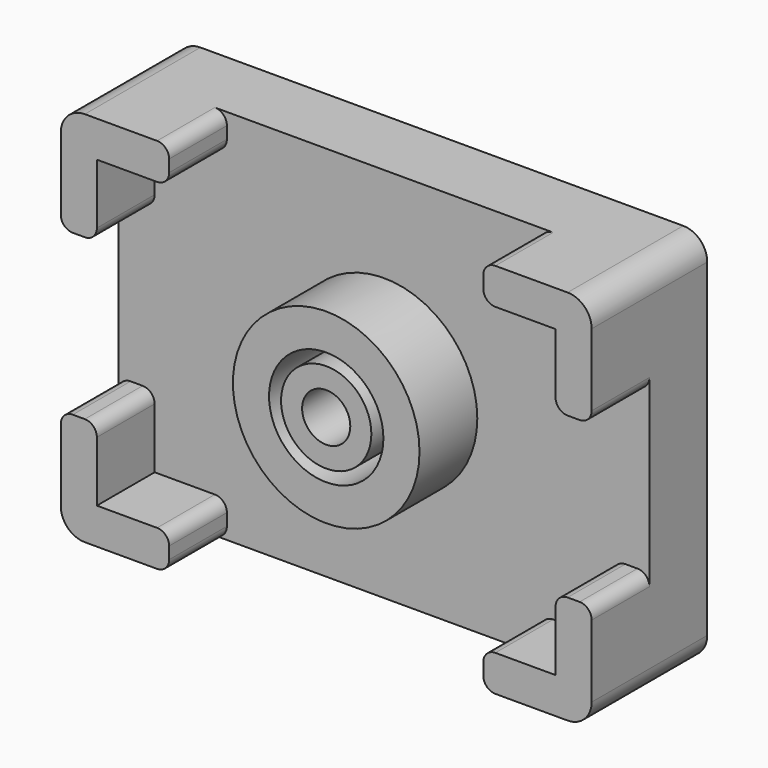
from build123d import *

# Parameters (mm, degrees)
F0_R     = 9.5
F0_R_2   = 7.75
F0_R_3   = 1.4
F0_R_4   = 4.75
F0_R_5   = 3.75
F0_R_6   = 2
F1_DEPTH = 3
F0_W     = 26.1
F0_H     = 3
F0_W_2   = 3
F0_H_2   = 13.3
F2_DEPTH = 6
F3_DEPTH = 1
F4_DEPTH = 6
F5_DEPTH = 6
F6_DEPTH = 6
F7_SIZE  = 0.6
F8_DEPTH = 3
F9_R     = 2
F10_SIZE = 0.4
F11_R    = 1


with BuildPart() as f1:
    # F0 (on Front) → F1 (new body)
    with BuildSketch(Plane.XZ):
        Polygon((-13.05, 12.65), (-19.05, 12.65), (-19.05, 6.65), (-19.05, -6.65), (-19.05, -12.65), (-13.05, -12.65), (13.05, -12.65), (19.05, -12.65), (19.05, -6.65), (19.05, 6.65), (19.05, 12.65), (13.05, 12.65), align=None)
        Circle(F0_R, mode=Mode.SUBTRACT)
        Circle(F0_R)
        Circle(F0_R_2, mode=Mode.SUBTRACT)
        Circle(F0_R_2)
        with Locations((-6.25, 0)):
            Circle(F0_R_3, mode=Mode.SUBTRACT)
        Circle(F0_R_4, mode=Mode.SUBTRACT)
        with Locations((6.25, 0)):
            Circle(F0_R_3, mode=Mode.SUBTRACT)
        Circle(F0_R_4)
        Circle(F0_R_5, mode=Mode.SUBTRACT)
        Circle(F0_R_5)
        Circle(F0_R_6, mode=Mode.SUBTRACT)
    extrude(amount=-F1_DEPTH)

    # F0 (on Front) → F2 (join)
    with BuildSketch(Plane.XZ):
        Polygon((-19.05, 6.65), (-19.05, 12.65), (-13.05, 12.65), (-13.05, 15.65), (-22.05, 15.65), (-22.05, 6.65), align=None)
        Polygon((13.05, 15.65), (13.05, 12.65), (19.05, 12.65), (19.05, 6.65), (22.05, 6.65), (22.05, 15.65), align=None)
        with Locations((0, -14.15)):
            Rectangle(F0_W, F0_H)
        with Locations((0, 14.15)):
            Rectangle(F0_W, F0_H)
        with Locations((-20.55, 0)):
            Rectangle(F0_W_2, F0_H_2)
        Polygon((-19.05, -12.65), (-19.05, -6.65), (-22.05, -6.65), (-22.05, -15.65), (-13.05, -15.65), (-13.05, -12.65), align=None)
        Polygon((22.05, -6.65), (19.05, -6.65), (19.05, -12.65), (13.05, -12.65), (13.05, -15.65), (22.05, -15.65), align=None)
        with Locations((20.55, 0)):
            Rectangle(F0_W_2, F0_H_2)
    extrude(amount=-F2_DEPTH)

    # F0 (on Front) → F3 (join)
    with BuildSketch(Plane.XZ):
        with Locations((-6.25, 0)):
            Circle(F0_R_3)
        with Locations((6.25, 0)):
            Circle(F0_R_3)
    extrude(amount=-F3_DEPTH)

    # F0 (on Front) → F4 (join)
    with BuildSketch(Plane.XZ):
        Circle(F0_R_5)
        Circle(F0_R_6, mode=Mode.SUBTRACT)
    extrude(amount=F4_DEPTH)

    # F0 (on Front) → F5 (join)
    with BuildSketch(Plane.XZ):
        Polygon((-19.05, 6.65), (-19.05, 12.65), (-13.05, 12.65), (-13.05, 15.65), (-22.05, 15.65), (-22.05, 6.65), align=None)
        Polygon((13.05, 15.65), (13.05, 12.65), (19.05, 12.65), (19.05, 6.65), (22.05, 6.65), (22.05, 15.65), align=None)
        Polygon((-19.05, -12.65), (-19.05, -6.65), (-22.05, -6.65), (-22.05, -15.65), (-13.05, -15.65), (-13.05, -12.65), align=None)
        Polygon((22.05, -6.65), (19.05, -6.65), (19.05, -12.65), (13.05, -12.65), (13.05, -15.65), (22.05, -15.65), align=None)
    extrude(amount=F5_DEPTH)

    # F0 (on Front) → F6 (join)
    with BuildSketch(Plane.XZ):
        Circle(F0_R_2)
        with Locations((-6.25, 0)):
            Circle(F0_R_3, mode=Mode.SUBTRACT)
        Circle(F0_R_4, mode=Mode.SUBTRACT)
        with Locations((6.25, 0)):
            Circle(F0_R_3, mode=Mode.SUBTRACT)
        with Locations((-6.25, 0)):
            Circle(F0_R_3)
        with Locations((6.25, 0)):
            Circle(F0_R_3)
    extrude(amount=F6_DEPTH)

    # F7
    f7_edges = [f1.edges().sort_by_distance(p)[0] for p in [
        (0, 6, 12.65),
        (-19.05, 6, 0),
        (19.05, 6, 0),
        (0, 6, -12.65),
    ]]
    chamfer(f7_edges, length=F7_SIZE)

    # F0 (on Front) → F8 (join)
    with BuildSketch(Plane.XZ):
        Circle(F0_R_6)
        Circle(F0_R_3, mode=Mode.SUBTRACT)
    extrude(amount=-F8_DEPTH)

    # F9
    f9_edges = [f1.edges().sort_by_distance(p)[0] for p in [
        (22.05, 0, 15.65),
        (-22.05, 0, 15.65),
        (-22.05, 0, -15.65),
        (22.05, 0, -15.65),
    ]]
    fillet(f9_edges, radius=F9_R)

    # F10
    f10_edges = [f1.edges().sort_by_distance(p)[0] for p in [
        (-1.4, 0, 0),
    ]]
    chamfer(f10_edges, length=F10_SIZE)

    # F11
    f11_edges = [f1.edges().sort_by_distance(p)[0] for p in [
        (-22.05, -3, 6.65),
        (-19.05, -3, 6.65),
        (-13.05, -3, 12.65),
        (-13.05, -3, 15.65),
        (13.05, -3, 12.65),
        (19.05, -3, 6.65),
        (22.05, -3, 6.65),
        (-13.05, -3, -15.65),
        (13.05, -3, -15.65),
        (-22.05, -3, -6.65),
        (-19.05, -3, -6.65),
        (13.05, -3, 15.65),
        (22.05, -3, -6.65),
        (19.05, -3, -6.65),
        (13.05, -3, -12.65),
        (-13.05, -3, -12.65),
    ]]
    fillet(f11_edges, radius=F11_R)


solid = f1.part
